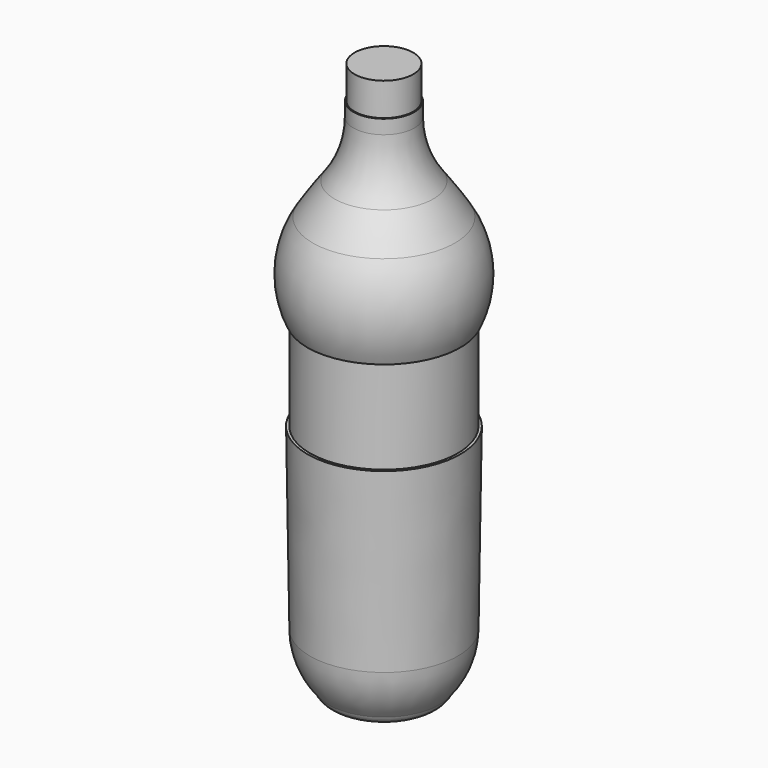
from build123d import *


with BuildPart() as f1:
    # F0 (on Front) → F1 (revolve)
    with BuildSketch(Plane.XZ):
        with BuildLine():
            Line((424.0377995081, -2778.5256522739), (424.0377995081, 2618.9743477261))
            Line((424.0377995081, 2618.9743477261), (106.5377995081, 2618.9743477261))
            Line((106.5377995081, 2618.9743477261), (106.5377995081, 2263.3743477261))
            Line((106.5377995081, 2263.3743477261), (93.8377995081, 2263.3743477261))
            Line((93.8377995081, 2263.3743477261), (93.8377995081, 2110.9743477261))
            ThreePointArc((93.8377995081, 2110.9743477261), (41.6361700504, 1789.4954200497), (-109.6045251768, 1501.0513818635))
            ThreePointArc((-109.6045251768, 1501.0513818635), (-231.0401611624, 1332.1776746769), (-345.4608624029, 1158.4743477261))
            ThreePointArc((-345.4608624029, 1158.4743477261), (-499.9257694226, 677.6211862896), (-403.7748158513, 181.8045220967))
            Line((-403.7748158513, 181.8045220967), (-375.8348158513, 181.8045220967))
            Line((-375.8348158513, 181.8045220967), (-375.8348158513, -834.1954779033))
            Line((-375.8348158513, -834.1954779033), (-403.7748158513, -834.1954779033))
            Line((-403.7748158513, -834.1954779033), (-375.8348158513, -2766.4254825933))
            ThreePointArc((-375.8348158513, -2766.4254825933), (-321.1913140128, -3050.5038707901), (-172.1663028002, -3298.451423645))
            ThreePointArc((-172.1663028002, -3298.451423645), (-54.9276260186, -3395.8239656649), (88.0180726979, -3342.9765769747))
            ThreePointArc((88.0180726979, -3342.9765769747), (246.4453813046, -3252.5670785521), (424.0377995081, -3210.9254825933))
            Line((424.0377995081, -3210.9254825933), (424.0377995081, -2778.5256522739))
        make_face()
        with BuildLine():
            Line((424.0377995081, -2778.5256522739), (424.0377995081, 2618.9743477261))
            Line((424.0377995081, 2618.9743477261), (106.5377995081, 2618.9743477261))
            Line((106.5377995081, 2618.9743477261), (106.5377995081, 2263.3743477261))
            Line((106.5377995081, 2263.3743477261), (93.8377995081, 2263.3743477261))
            Line((93.8377995081, 2263.3743477261), (93.8377995081, 2110.9743477261))
            ThreePointArc((93.8377995081, 2110.9743477261), (41.6361700504, 1789.4954200497), (-109.6045251768, 1501.0513818635))
            ThreePointArc((-109.6045251768, 1501.0513818635), (-231.0401611624, 1332.1776746769), (-345.4608624029, 1158.4743477261))
            ThreePointArc((-345.4608624029, 1158.4743477261), (-499.9257694226, 677.6211862896), (-403.7748158513, 181.8045220967))
            Line((-403.7748158513, 181.8045220967), (-375.8348158513, 181.8045220967))
            Line((-375.8348158513, 181.8045220967), (-375.8348158513, -834.1954779033))
            Line((-375.8348158513, -834.1954779033), (-403.7748158513, -834.1954779033))
            Line((-403.7748158513, -834.1954779033), (-375.8348158513, -2766.4254825933))
            ThreePointArc((-375.8348158513, -2766.4254825933), (-321.1913140128, -3050.5038707901), (-172.1663028002, -3298.451423645))
            ThreePointArc((-172.1663028002, -3298.451423645), (-54.9276260186, -3395.8239656649), (88.0180726979, -3342.9765769747))
            ThreePointArc((88.0180726979, -3342.9765769747), (246.4453813046, -3252.5670785521), (424.0377995081, -3210.9254825933))
            Line((424.0377995081, -3210.9254825933), (424.0377995081, -2778.5256522739))
        make_face()
    revolve(axis=Axis((424.0377995081, 0, -79.7756522739), (0, 0, -1)))


solid = f1.part
